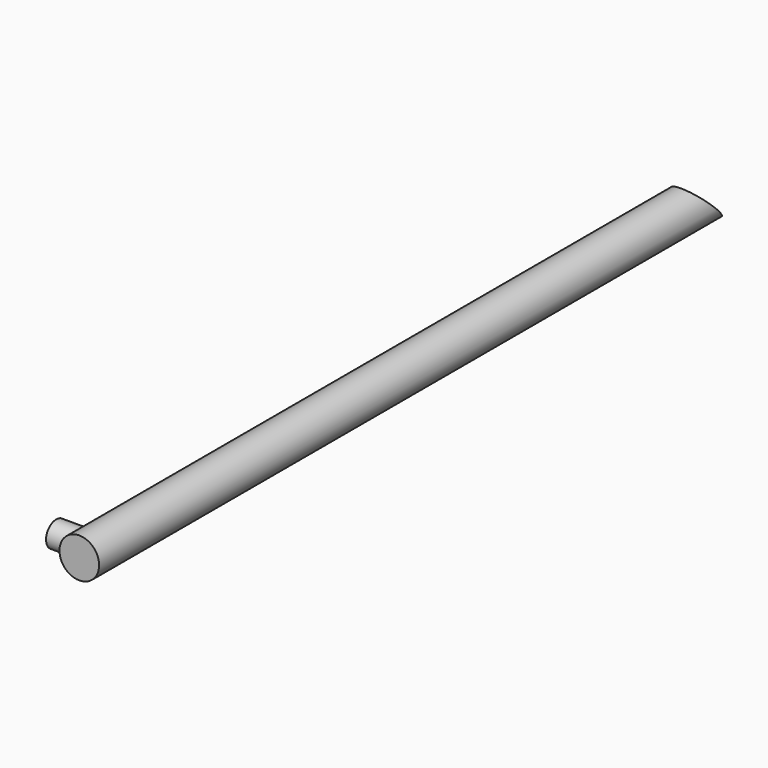
from build123d import *

# Parameters (mm, degrees)
F0_R     = 3.175
F1_DEPTH = 127
F2_R     = 2.032
F3_DEPTH = 6.35
F5_DEPTH = 12.7


with BuildPart() as f1:
    # F0 (on Front) → F1 (new body)
    with BuildSketch(Plane.XZ):
        Circle(F0_R)
    extrude(amount=F1_DEPTH)

    # F2 (on Right) → F3 (join)
    with BuildSketch(Plane.YZ):
        with Locations((-123.687468, 0)):
            Circle(F2_R)
    extrude(amount=-F3_DEPTH)

    # F4 (on Right) → F5 (cut, symmetric)
    with BuildSketch(Plane.YZ):
        Polygon((0.1524, -3.522164), (0.1524, 3.558817), (-6.928581, 3.558817), align=None)
    extrude(amount=F5_DEPTH, both=True, mode=Mode.SUBTRACT)


solid = f1.part
